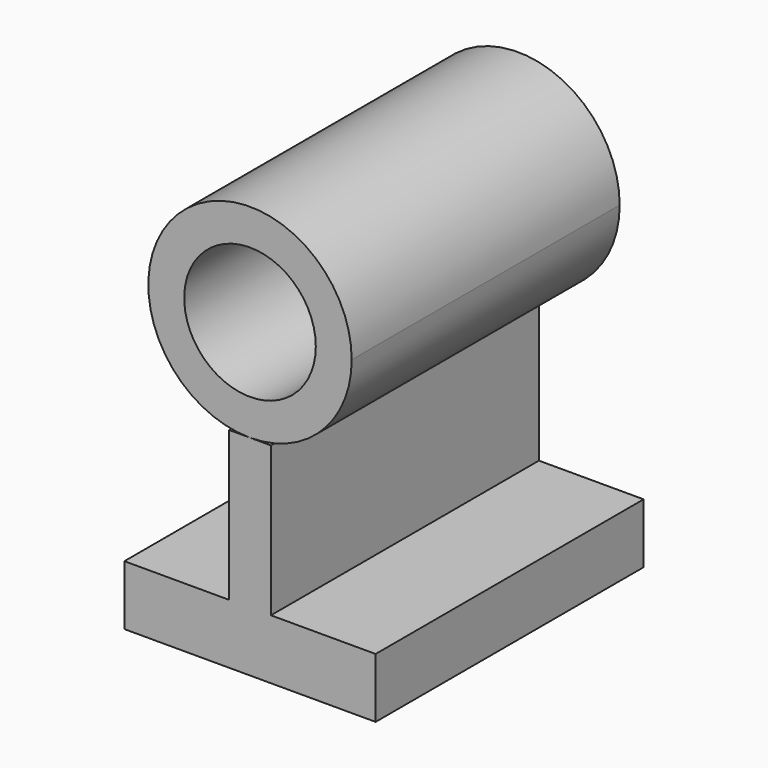
from build123d import *

# Parameters (mm, degrees)
F0_R     = 11
F1_DEPTH = 56
F2_W     = 12
F2_H     = 10
F3_DEPTH = 70


with BuildPart() as f1:
    # F0 (on Front) → F1 (new body)
    with BuildSketch(Plane.XZ):
        with BuildLine():
            ThreePointArc((0, 26.340832), (12.020815, 31.320017), (17, 43.340832))
            ThreePointArc((17, 43.340832), (-12.020815, 55.361647), (0, 26.340832))
        make_face()
        with Locations((0, 43.340832)):
            Circle(F0_R, mode=Mode.SUBTRACT)
        Polygon((3.5, 26.340832), (0, 26.340832), (-3.5, 26.340832), (-3.5, 1.340832), (3.5, 1.340832), align=None)
        Polygon((3.5, 1.340832), (-3.5, 1.340832), (-21, 1.340832), (-21, -8.659168), (21, -8.659168), (21, 1.340832), align=None)
    extrude(amount=F1_DEPTH)

    # F2 (on Front) → F3 (cut)
    with BuildSketch(Plane.XZ):
        with Locations((0, -8.781475)):
            Rectangle(F2_W, F2_H)
    extrude(amount=-F3_DEPTH, mode=Mode.SUBTRACT)


solid = f1.part
